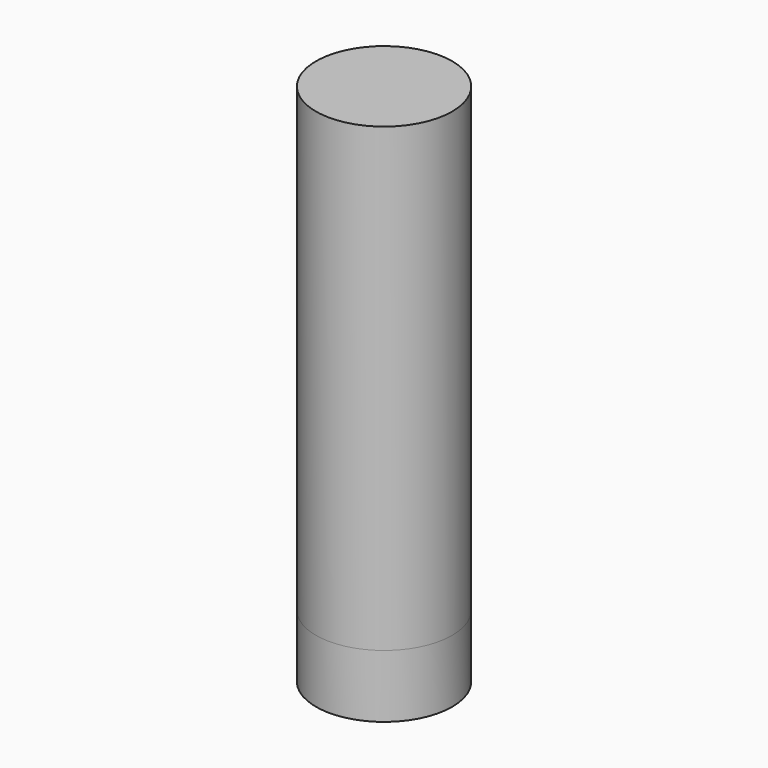
from build123d import *

# Parameters (mm, degrees)
F0_R     = 3.25
F1_DEPTH = 25
F2_DEPTH = 3
F3_DEPTH = 3


with BuildPart() as f1:
    # F0 (on Top) → F1 (new body)
    with BuildSketch(Plane.XY):
        with Locations((-22.950623, 25.286699)):
            Circle(F0_R)
    extrude(amount=F1_DEPTH)


with BuildPart() as f2:
    # F0 (on Top) → F2 (new body)
    with BuildSketch(Plane.XY):
        with Locations((-22.950623, 25.286699)):
            Circle(F0_R)
    extrude(amount=F2_DEPTH)


with BuildPart() as f3:
    # F0 (on Top) → F3 (new body)
    with BuildSketch(Plane.XY):
        with Locations((-22.950623, 25.286699)):
            Circle(F0_R)
    extrude(amount=F3_DEPTH)


solid = Compound([f1.part, f2.part, f3.part])
